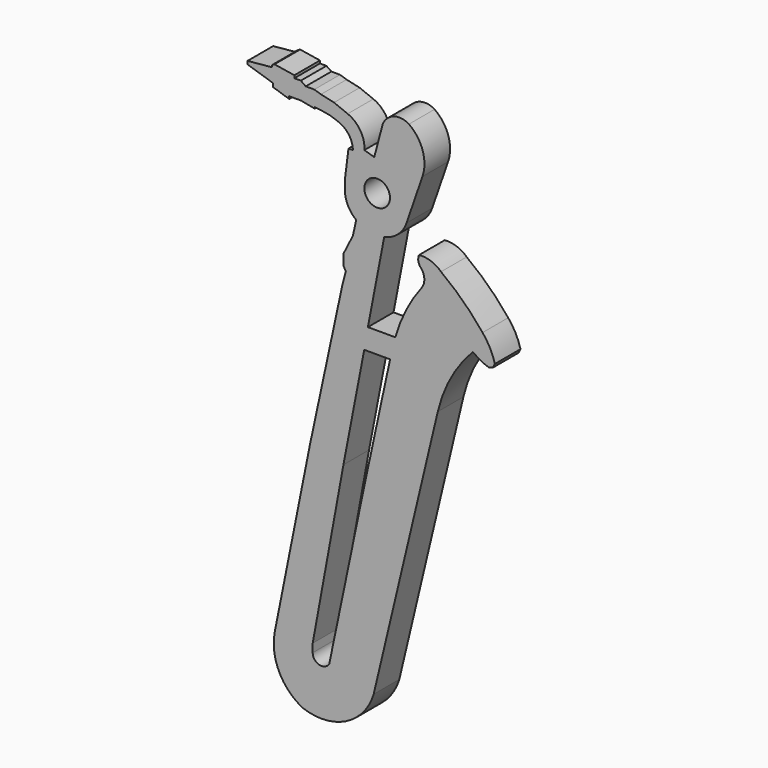
from build123d import *

# Parameters (mm, degrees)
F1_DEPTH = 6.35
F2_R     = 2.54
F3_DEPTH = 25.4


with BuildPart() as f1:
    # F0 (on Front) → F1 (new body)
    with BuildSketch(Plane.XZ):
        with BuildLine():
            Line((-20.889115, 60.526285), (-16.26681, 59.066612))
            Line((-16.26681, 59.066612), (-15.830917, 58.889605))
            Line((-15.830917, 58.889605), (-15.830917, 58.209576))
            Line((-15.830917, 58.209576), (-12.618371, 57.177812))
            Line((-12.618371, 57.177812), (-12.618371, 57.670243))
            Line((-12.618371, 57.670243), (-10.241478, 57.670243))
            Line((-10.241478, 57.670243), (-7.581695, 57.135701))
            Line((-7.581695, 57.135701), (-7.581695, 57.432003))
            Line((-7.581695, 57.432003), (-6.635662, 57.324789))
            Line((-6.635662, 57.324789), (-4.491019, 56.949887))
            Line((-4.491019, 56.949887), (-2.952516, 56.409329))
            ThreePointArc((-2.952516, 56.409329), (-0.851296, 54.850129), (0, 52.375957))
            Line((0, 52.375957), (-0.877132, 52.375957))
            Line((-0.877132, 52.375957), (-1.567079, 46.955436))
            Line((-1.567079, 46.955436), (-1.567079, 44.264641))
            ThreePointArc((-1.567079, 44.264641), (-0.8459, 42.114083), (0.640751, 40.400937))
            Line((0.640751, 40.400937), (0, 37.455238))
            Line((0, 37.455238), (-1.842678, 33.770651))
            Line((-1.842678, 33.770651), (-1.842678, 31.503212))
            Line((-1.842678, 31.503212), (-1.417533, 30.794635))
            Line((-1.417533, 30.794635), (-2.07887, 28.243765))
            Line((-2.07887, 28.243765), (-8.527999, -1.817608))
            Line((-8.527999, -1.817608), (-15.488199, -36.675949))
            ThreePointArc((-15.488199, -36.675949), (-14.648921, -43.326858), (-9.97872, -48.136037))
            ThreePointArc((-9.97872, -48.136037), (-1.42701, -47.709249), (4.110376, -41.178457))
            Line((4.110376, -41.178457), (16.807957, 12.220957))
            ThreePointArc((16.807957, 12.220957), (19.431478, 19.038387), (23.765534, 24.918538))
            ThreePointArc((23.765534, 24.918538), (25.290907, 23.912972), (26.975302, 23.205344))
            Line((26.975302, 23.205344), (27.736332, 23.460824))
            Line((27.736332, 23.460824), (28.119063, 24.226284))
            ThreePointArc((28.119063, 24.226284), (27.157424, 26.701006), (25.680099, 28.907022))
            ThreePointArc((25.680099, 28.907022), (21.825489, 33.139103), (17.454406, 36.835339))
            ThreePointArc((17.454406, 36.835339), (15.4347, 38.062481), (13.087361, 38.336512))
            ThreePointArc((13.087361, 38.336512), (12.975342, 37.140081), (13.566813, 36.094062))
            ThreePointArc((13.566813, 36.094062), (14.148474, 34.469104), (13.633241, 32.821878))
            ThreePointArc((13.633241, 32.821878), (10.523821, 27.891258), (8.395954, 22.464317))
            Line((8.395954, 22.464317), (2.962825, 22.464317))
            Line((2.962825, 22.464317), (6.196537, 39.248005))
            ThreePointArc((6.196537, 39.248005), (8.92096, 40.593719), (10.617694, 43.114536))
            Line((10.617694, 43.114536), (13.772099, 52.244779))
            ThreePointArc((13.772099, 52.244779), (13.816488, 56.829286), (11.092304, 60.516898))
            ThreePointArc((11.092304, 60.516898), (8.077499, 60.874677), (5.885676, 58.773972))
            Line((5.885676, 58.773972), (4.220961, 52.515622))
            Line((4.220961, 52.515622), (2.277029, 53.121518))
            ThreePointArc((2.277029, 53.121518), (1.467108, 56.284721), (-1.043456, 58.372516))
            Line((-1.043456, 58.372516), (-3.746176, 59.453607))
            Line((-3.746176, 59.453607), (-6.335091, 60.045652))
            Line((-6.335091, 60.045652), (-7.643812, 60.458932))
            Line((-7.643812, 60.458932), (-9.349519, 60.458932))
            Line((-9.349519, 60.458932), (-10.327793, 61.136197))
            Line((-10.327793, 61.136197), (-11.607072, 61.136197))
            Line((-11.607072, 61.136197), (-11.607072, 61.662961))
            Line((-11.607072, 61.662961), (-15.54525, 62.290058))
            Line((-15.54525, 62.290058), (-16.0597, 62.008109))
            Line((-16.0597, 62.008109), (-16.021844, 61.612792))
            Line((-16.021844, 61.612792), (-20.889115, 61.146695))
            Line((-20.889115, 61.146695), (-20.889115, 60.526285))
        make_face()
        with BuildLine():
            Line((7.364996, 18.276827), (6.178751, 12.809121))
            Line((6.178751, 12.809121), (2.23865, -5.5569))
            Line((2.23865, -5.5569), (-3.729887, -34.168657))
            Line((-3.729887, -34.168657), (-4.688948, -38.746065))
            ThreePointArc((-4.688948, -38.746065), (-6.661154, -39.574168), (-7.968632, -37.881285))
            Line((-7.968632, -37.881285), (-7.972449, -36.224489))
            Line((-7.972449, -36.224489), (-1.882538, -3.113051))
            Line((-1.882538, -3.113051), (2.23865, 18.276827))
            Line((2.23865, 18.276827), (7.364996, 18.276827))
        make_face(mode=Mode.SUBTRACT)
    extrude(amount=F1_DEPTH)

    # F2 (on face) → F3 (cut)
    with BuildSketch(Plane.XZ.offset(6.35)):
        with Locations((4.801965, 46.43891)):
            Circle(F2_R)
    extrude(amount=-F3_DEPTH, mode=Mode.SUBTRACT)


solid = f1.part
